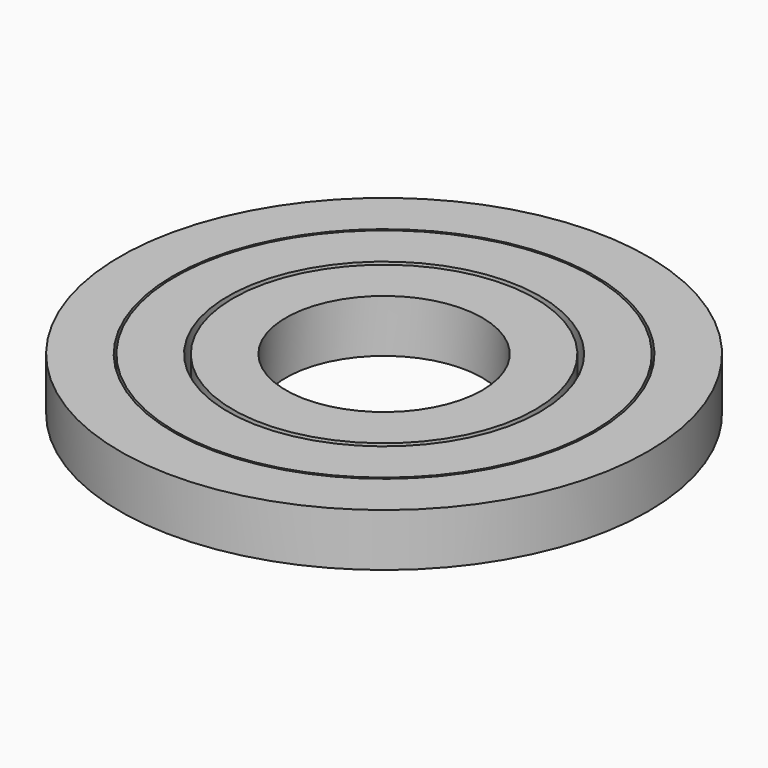
from build123d import *

# Parameters (mm, degrees)
F0_R     = 25
F0_R_2   = 20
F0_R_3   = 19.8
F0_R_4   = 14.8
F0_R_5   = 14.3
F0_R_6   = 9.3
F1_DEPTH = 5


with BuildPart() as f1:
    # F0 (on Top) → F1 (new body)
    with BuildSketch(Plane.XY):
        Circle(F0_R)
        Circle(F0_R_2, mode=Mode.SUBTRACT)
        Circle(F0_R_3)
        Circle(F0_R_4, mode=Mode.SUBTRACT)
        Circle(F0_R_5)
        Circle(F0_R_6, mode=Mode.SUBTRACT)
    extrude(amount=F1_DEPTH)


solid = f1.part
